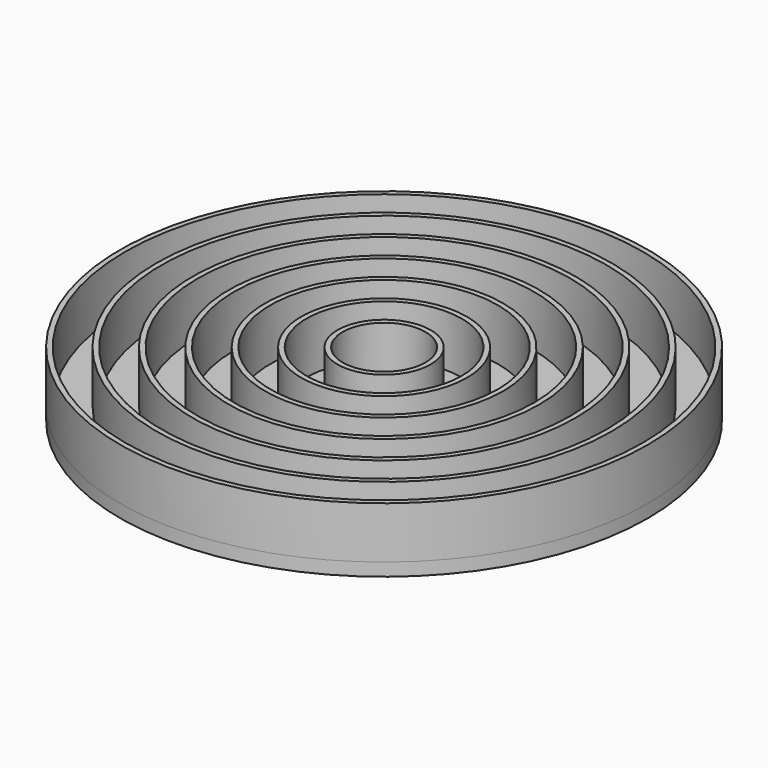
from build123d import *

# Parameters (mm, degrees)
F1_R     = 129.54
F3_DEPTH = 6.35
F2_R     = 129.54
F2_R_2   = 127
F2_R_3   = 111.76
F2_R_4   = 109.22
F2_R_5   = 93.98
F2_R_6   = 91.44
F2_R_7   = 76.2
F2_R_8   = 73.66
F2_R_9   = 58.42
F2_R_10  = 55.88
F2_R_11  = 40.64
F2_R_12  = 38.1
F2_R_13  = 22.86
F2_R_14  = 20.32
F4_DEPTH = 25.4


with BuildPart() as f3:
    # F1 (on Top) → F3 (new body)
    with BuildSketch(Plane.XY):
        Circle(F1_R)
    extrude(amount=-F3_DEPTH)

    # F2 (on Top) → F4 (join)
    with BuildSketch(Plane.XY):
        Circle(F2_R)
        Circle(F2_R_2, mode=Mode.SUBTRACT)
        Circle(F2_R_3)
        Circle(F2_R_4, mode=Mode.SUBTRACT)
        Circle(F2_R_5)
        Circle(F2_R_6, mode=Mode.SUBTRACT)
        Circle(F2_R_7)
        Circle(F2_R_8, mode=Mode.SUBTRACT)
        Circle(F2_R_9)
        Circle(F2_R_10, mode=Mode.SUBTRACT)
        Circle(F2_R_11)
        Circle(F2_R_12, mode=Mode.SUBTRACT)
        Circle(F2_R_13)
        Circle(F2_R_14, mode=Mode.SUBTRACT)
    extrude(amount=F4_DEPTH)


solid = f3.part
